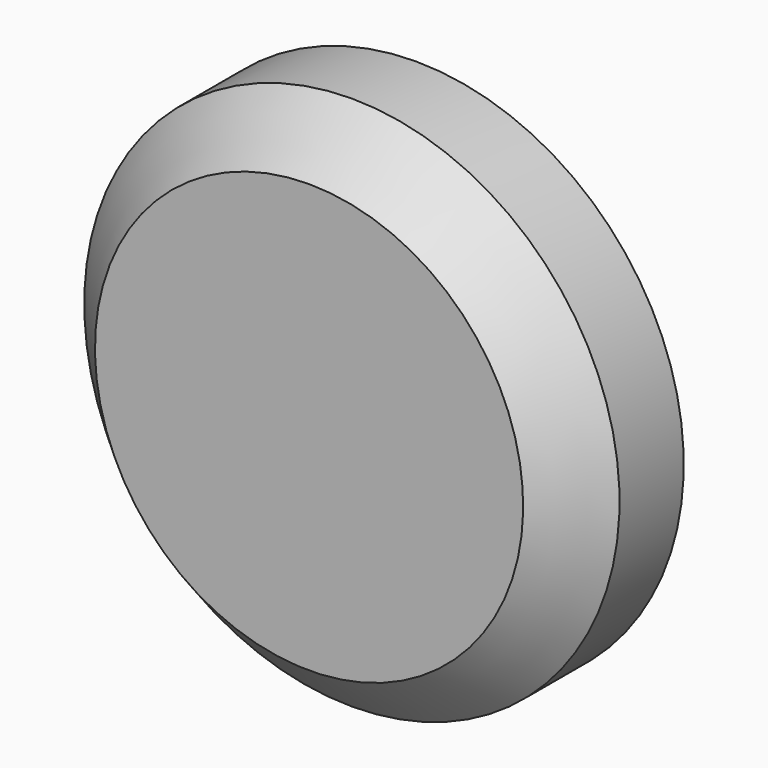
from build123d import *

# Parameters (mm, degrees)
F2_SIZE = 0.8
F3_SIZE = 0.4


with BuildPart() as f1:
    # F0 (on Right) → F1 (revolve)
    with BuildSketch(Plane.YZ):
        Polygon((-2, 4), (-2, 0), (0.8, 0), (0.8, 3), (0, 3), (0, 4), align=None)
    revolve(axis=Axis((0, -0.6, 0), (0, -1, 0)))

    # F2
    f2_edges = [f1.edges().sort_by_distance(p)[0] for p in [
        (0, -2, -4),
    ]]
    chamfer(f2_edges, length=F2_SIZE)

    # F3
    f3_edges = [f1.edges().sort_by_distance(p)[0] for p in [
        (0, 0.8, -3),
    ]]
    chamfer(f3_edges, length=F3_SIZE)


solid = f1.part
